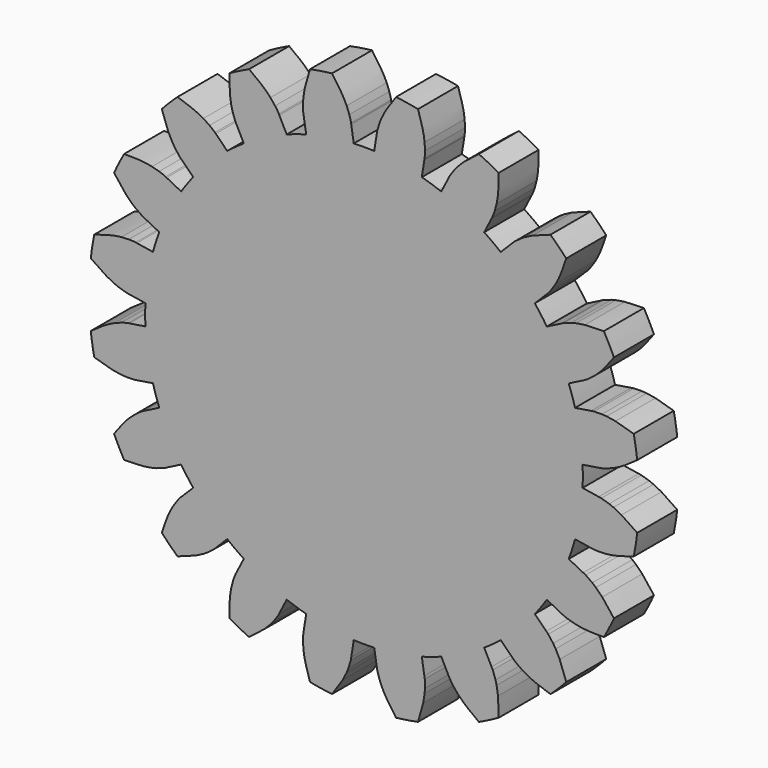
from build123d import *

# Parameters (mm, degrees)
F2_DEPTH = 5
F4_COUNT = 20


with BuildPart() as f2:
    # F1 (on Front) → F2 (new body)
    with BuildSketch(Plane.XZ):
        with BuildLine():
            ThreePointArc((21.875, 0), (17.9189509688, 12.5469845452), (7.4816906352, 20.5557760797))
            Line((7.4816906352, 20.5557760797), (0, 0))
            Line((0, 0), (-5.6183057619, 21.1411982954))
            ThreePointArc((-5.6183057619, 21.1411982954), (-5.6988186876, 21.1196375576), (-5.7792488766, 21.0977702002))
            ThreePointArc((-5.7792488766, 21.0977702002), (-13.2682808951, -17.3916171499), (21.875, 0))
        make_face()
        with BuildLine():
            ThreePointArc((7.4816906352, 20.5557760797), (5.8972159471, 21.0651007373), (4.2786041898, 21.4524863637))
            Line((4.2786041898, 21.4524863637), (0, 0))
            Line((0, 0), (7.4816906352, 20.5557760797))
        make_face()
        with BuildLine():
            Line((0, 0), (4.2786041898, 21.4524863637))
            ThreePointArc((4.2786041898, 21.4524863637), (2.6352249816, 21.7156905093), (0.9765913113, 21.8531895706))
            Line((0.9765913113, 21.8531895706), (0, 0))
        make_face()
        with BuildLine():
            Line((0, 0), (0.9765913113, 21.8531895706))
            ThreePointArc((0.9765913113, 21.8531895706), (-0.0233173317, 21.8749875726), (-1.0231772319, 21.8510579458))
            ThreePointArc((-1.0231772319, 21.8510579458), (-1.1064282723, 21.8470007433), (-1.1896632494, 21.8426263612))
            Line((-1.1896632494, 21.8426263612), (0, 0))
        make_face()
        with BuildLine():
            Line((-2.3480015235, 21.7486209642), (0, 0))
            Line((0, 0), (-1.1896632494, 21.8426263612))
            ThreePointArc((-1.1896632494, 21.8426263612), (-1.7694567711, 21.8033173562), (-2.3480015235, 21.7486209642))
        make_face()
        with BuildLine():
            Line((-4.2942803585, 21.4493538645), (0, 0))
            Line((0, 0), (-2.3480015235, 21.7486209642))
            ThreePointArc((-2.3480015235, 21.7486209642), (-3.3245100916, 21.6208986319), (-4.2942803585, 21.4493538645))
        make_face()
        with BuildLine():
            Line((-5.6183057619, 21.1411982954), (0, 0))
            Line((0, 0), (-4.2942803585, 21.4493538645))
            ThreePointArc((-4.2942803585, 21.4493538645), (-4.9586874132, 21.3055636897), (-5.6183057619, 21.1411982954))
        make_face()
        with BuildLine():
            Line((-5.6183057619, 21.1411982954), (-6.0336919608, 22.7042606089))
            Line((-6.0336919608, 22.7042606089), (-5.7792488766, 21.0977702002))
            ThreePointArc((-5.7792488766, 21.0977702002), (-5.6988186876, 21.1196375576), (-5.6183057619, 21.1411982954))
        make_face()
        with BuildLine():
            ThreePointArc((-4.6117755023, 23.0351994823), (-5.3253051097, 22.8807782639), (-6.0336919608, 22.7042606089))
            Line((-6.0336919608, 22.7042606089), (-5.6183057619, 21.1411982954))
            ThreePointArc((-5.6183057619, 21.1411982954), (-4.9586874132, 21.3055636897), (-4.2942803585, 21.4493538645))
            Line((-4.2942803585, 21.4493538645), (-4.6117755023, 23.0351994823))
        make_face()
        with BuildLine():
            Line((-4.630536848, 23.1289098856), (-6.0747029395, 22.9729963595))
            add(Edge.make_bspline(
                [(-6.0747029395, 22.9729963595), (-6.0651949012, 22.8598249555), (-6.0540821768, 22.7809872268), (-6.0336919608, 22.7042606089)],
                knots=[0.8686330807, 0.8686330807, 0.8686330807, 0.8686330807, 1, 1, 1, 1], degree=3))
            ThreePointArc((-6.0336919608, 22.7042606089), (-5.3253051097, 22.8807782639), (-4.6117755023, 23.0351994823))
            Line((-4.6117755023, 23.0351994823), (-4.630536848, 23.1289098856))
        make_face()
        with BuildLine():
            Line((-4.7504890833, 23.7280551967), (-6.0915785709, 23.7879867841))
            add(Edge.make_bspline(
                [(-6.0915785709, 23.7879867841), (-6.1028203186, 23.4678967777), (-6.0911675486, 23.168969796), (-6.0747029395, 22.9729963595)],
                knots=[0.6411513522, 0.6411513522, 0.6411513522, 0.6411513522, 0.8686330807, 0.8686330807, 0.8686330807, 0.8686330807], degree=3))
            Line((-6.0747029395, 22.9729963595), (-4.630536848, 23.1289098856))
            Line((-4.630536848, 23.1289098856), (-4.7504890833, 23.7280551967))
        make_face()
        with BuildLine():
            ThreePointArc((-4.9077489811, 24.5135472737), (-5.4852840903, 24.3908109428), (-6.0597596309, 24.2544699636))
            add(Edge.make_bspline(
                [(-6.0597596309, 24.2544699636), (-6.0759094697, 24.0942128711), (-6.0862835974, 23.9387523165), (-6.0915785709, 23.7879867841)],
                knots=[0.5340052269, 0.5340052269, 0.5340052269, 0.5340052269, 0.6411513522, 0.6411513522, 0.6411513522, 0.6411513522], degree=3))
            Line((-6.0915785709, 23.7879867841), (-4.7504890833, 23.7280551967))
            Line((-4.7504890833, 23.7280551967), (-4.9077489811, 24.5135472737))
        make_face()
        with BuildLine():
            add(Edge.make_bspline(
                [(-5.9192297059, 25.1355686175), (-5.9860267273, 24.8269757031), (-6.0316450675, 24.5334546782), (-6.0597596309, 24.2544699636)],
                knots=[0.3474791225, 0.3474791225, 0.3474791225, 0.3474791225, 0.5340052269, 0.5340052269, 0.5340052269, 0.5340052269], degree=3))
            ThreePointArc((-6.0597596309, 24.2544699636), (-5.4852840903, 24.3908109428), (-4.9077489811, 24.5135472737))
            Line((-4.9077489811, 24.5135472737), (-4.9953921789, 24.9513132801))
            Line((-4.9953921789, 24.9513132801), (-5.9192297059, 25.1355686175))
        make_face()
        with BuildLine():
            add(Edge.make_bspline(
                [(-5.3985238793, 26.964902001), (-5.596859351, 26.3376282391), (-5.7947936626, 25.7104457666), (-5.9192297059, 25.1355686175)],
                knots=[0, 0, 0, 0, 0.3474791225, 0.3474791225, 0.3474791225, 0.3474791225], degree=3))
            Line((-5.9192297059, 25.1355686175), (-4.9953921789, 24.9513132801))
            Line((-4.9953921789, 24.9513132801), (-5.3985238793, 26.964902001))
        make_face()
        with BuildLine():
            ThreePointArc((-3.7904110587, 24.7109850877), (-2.7635124108, 24.8467905202), (-1.7318695242, 24.9399404159))
            add(Edge.make_bspline(
                [(-3.1983116562, 27.3133813826), (-2.8158451608, 26.7780976151), (-2.2287010901, 25.9554174994), (-1.8448190809, 25.1965827688), (-1.7318695242, 24.9399404159)],
                knots=[0, 0, 0, 0, 0.3474791225, 0.5340052269, 0.5340052269, 0.5340052269, 0.5340052269], degree=3))
            ThreePointArc((-3.1983116562, 27.3133813826), (-4.3019477886, 27.1614293664), (-5.3985238793, 26.964902001))
            Line((-5.3985238793, 26.964902001), (-4.9953921789, 24.9513132801))
            Line((-4.9953921789, 24.9513132801), (-3.7904110587, 24.7109850877))
        make_face()
        with BuildLine():
            ThreePointArc((-4.9077489811, 24.5135472737), (-4.3502002761, 24.6186059223), (-3.7904110587, 24.7109850877))
            Line((-3.7904110587, 24.7109850877), (-4.9953921789, 24.9513132801))
            Line((-4.9953921789, 24.9513132801), (-4.9077489811, 24.5135472737))
        make_face()
        with BuildLine():
            Line((-1.468908331, 24.2479715643), (-3.7904110587, 24.7109850877))
            ThreePointArc((-3.7904110587, 24.7109850877), (-4.3502002761, 24.6186059223), (-4.9077489811, 24.5135472737))
            Line((-4.9077489811, 24.5135472737), (-4.7504890833, 23.7280551967))
            Line((-4.7504890833, 23.7280551967), (-1.2904658612, 23.5734311495))
            add(Edge.make_bspline(
                [(-1.468908331, 24.2479715643), (-1.4034919076, 24.0453022), (-1.3320225965, 23.7826082793), (-1.2977741119, 23.6185416484), (-1.2904658612, 23.5734311495)],
                knots=[0.7075580197, 0.7075580197, 0.7075580197, 0.7075580197, 0.8686330807, 0.9376196354, 0.9376196354, 0.9376196354, 0.9376196354], degree=3))
        make_face()
        with BuildLine():
            add(Edge.make_bspline(
                [(-1.7318695242, 24.9399404159), (-1.6669879497, 24.7925174385), (-1.5731926197, 24.5582232374), (-1.4958776623, 24.3315263804), (-1.468908331, 24.2479715643)],
                knots=[0.5340052269, 0.5340052269, 0.5340052269, 0.5340052269, 0.6411513522, 0.7075580197, 0.7075580197, 0.7075580197, 0.7075580197], degree=3))
            ThreePointArc((-1.7318695242, 24.9399404159), (-2.7635124108, 24.8467905202), (-3.7904110587, 24.7109850877))
            Line((-3.7904110587, 24.7109850877), (-1.468908331, 24.2479715643))
        make_face()
        with BuildLine():
            Line((-1.0231772319, 21.8510579458), (-1.2776203162, 23.4575483545))
            Line((-1.2776203162, 23.4575483545), (-1.1896632494, 21.8426263612))
            ThreePointArc((-1.1896632494, 21.8426263612), (-1.1064282723, 21.8470007433), (-1.0231772319, 21.8510579458))
        make_face()
        with BuildLine():
            Line((-1.1896632494, 21.8426263612), (-1.2776203162, 23.4575483545))
            ThreePointArc((-1.2776203162, 23.4575483545), (-1.9002805379, 23.4153330609), (-2.5215996631, 23.3565927227))
            Line((-2.5215996631, 23.3565927227), (-2.3480015235, 21.7486209642))
            ThreePointArc((-2.3480015235, 21.7486209642), (-1.7694567711, 21.8033173562), (-1.1896632494, 21.8426263612))
        make_face()
        with BuildLine():
            add(Edge.make_bspline(
                [(-1.2904658612, 23.5734311495), (-1.2838574526, 23.5326404565), (-1.2796705453, 23.4951912659), (-1.2776203162, 23.4575483545)],
                knots=[0.9376196354, 0.9376196354, 0.9376196354, 0.9376196354, 1, 1, 1, 1], degree=3))
            Line((-1.2904658612, 23.5734311495), (-4.7504890833, 23.7280551967))
            Line((-4.7504890833, 23.7280551967), (-4.630536848, 23.1289098856))
            Line((-4.630536848, 23.1289098856), (-2.5215996631, 23.3565927227))
            ThreePointArc((-2.5215996631, 23.3565927227), (-1.9002805379, 23.4153330609), (-1.2776203162, 23.4575483545))
        make_face()
        with BuildLine():
            Line((-2.5215996631, 23.3565927227), (-4.630536848, 23.1289098856))
            Line((-4.630536848, 23.1289098856), (-4.6117755023, 23.0351994823))
            ThreePointArc((-4.6117755023, 23.0351994823), (-3.5703058295, 23.2194273133), (-2.5215996631, 23.3565927227))
        make_face()
        with BuildLine():
            Line((-2.3480015235, 21.7486209642), (-2.5215996631, 23.3565927227))
            ThreePointArc((-2.5215996631, 23.3565927227), (-3.5703058295, 23.2194273133), (-4.6117755023, 23.0351994823))
            Line((-4.6117755023, 23.0351994823), (-4.2942803585, 21.4493538645))
            ThreePointArc((-4.2942803585, 21.4493538645), (-3.3245100916, 21.6208986319), (-2.3480015235, 21.7486209642))
        make_face()
    extrude(amount=F2_DEPTH)

    # F4: F2 ×20 about axis
    f4_axis = Axis((0, -6.6713565029, 0), (0, -1, 0))


with BuildPart() as f2_1:
    add(f2.part)
    for i in range(1, F4_COUNT):
        add(f2.part.rotate(f4_axis, i * 360 / F4_COUNT))


solid = f2_1.part
